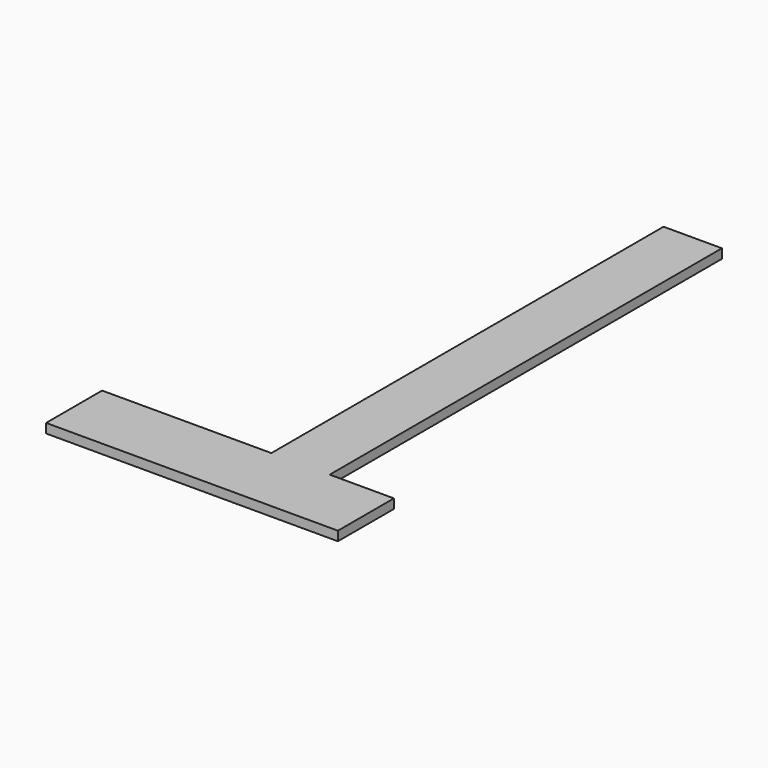
from build123d import *

# Parameters (mm, degrees)
BOX008_W     = 10
BOX008_H     = 95
BOX008_DEPTH = 1.6
BOX011_W     = 50
BOX011_H     = 12
BOX011_DEPTH = 1.6


with BuildPart() as box008:
    # Box008 → Box008 (new body)
    with BuildSketch(Plane(origin=(-11, -19, -2.6), x_dir=(1, 0, 0), z_dir=(0, 0, 1))):
        with Locations((5, 47.5)):
            Rectangle(BOX008_W, BOX008_H)
    extrude(amount=BOX008_DEPTH)


with BuildPart() as pcb001:
    # Box011 → Box011 (new body)
    with BuildSketch(Plane(origin=(-40, -20, -2.6), x_dir=(1, 0, 0), z_dir=(0, 0, 1))):
        with Locations((25, 6)):
            Rectangle(BOX011_W, BOX011_H)
    extrude(amount=BOX011_DEPTH)

    # Fusion002004: union Box008
    add(box008.part)


solid = pcb001.part
